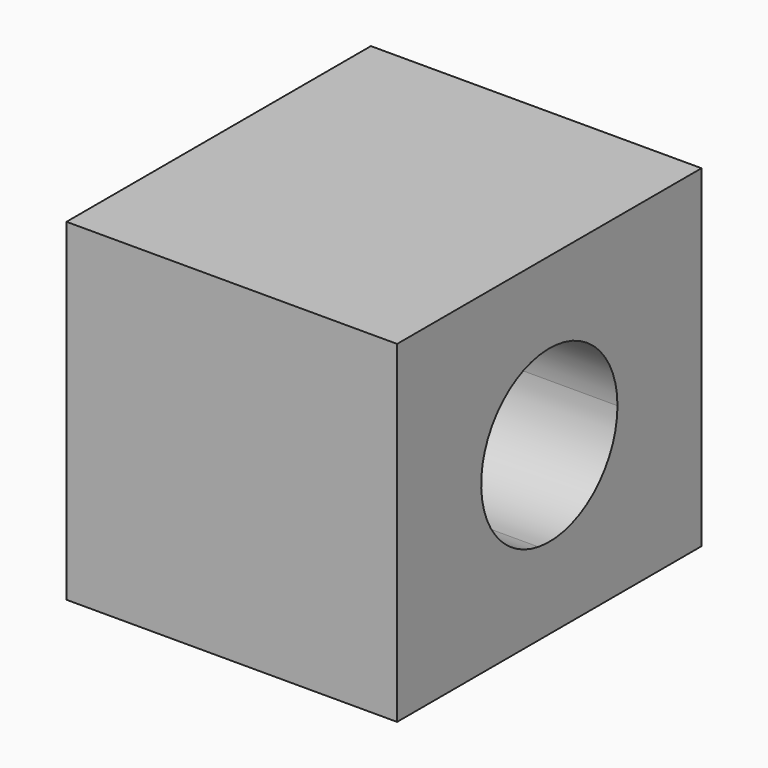
from build123d import *

# Parameters (mm, degrees)
F0_W     = 73.074155
F0_H     = 63.90892
F1_DEPTH = 63.5
F3_DEPTH = 63.5


with BuildPart() as f1:
    # F0 (on Right) → F1 (new body)
    with BuildSketch(Plane.YZ):
        with Locations((36.537077, 31.95446)):
            Rectangle(F0_W, F0_H)
    extrude(amount=F1_DEPTH)

    # F2 (on face) → F3 (cut)
    with BuildSketch(Plane.YZ.offset(63.5)):
        with BuildLine():
            ThreePointArc((24.867562, 20.489157), (29.021198, 17.423723), (33.923234, 15.8052))
            ThreePointArc((33.923234, 15.8052), (30.073151, 19.457503), (24.867562, 20.489157))
        make_face()
        with BuildLine():
            ThreePointArc((24.867562, 20.489157), (30.073151, 19.457503), (33.923234, 15.8052))
            ThreePointArc((33.923234, 15.8052), (47.14061, 19.496697), (52.896502, 31.95446))
            ThreePointArc((52.896502, 31.95446), (30.343362, 47.09608), (24.867562, 20.489157))
        make_face()
    extrude(amount=-F3_DEPTH, mode=Mode.SUBTRACT)


solid = f1.part
